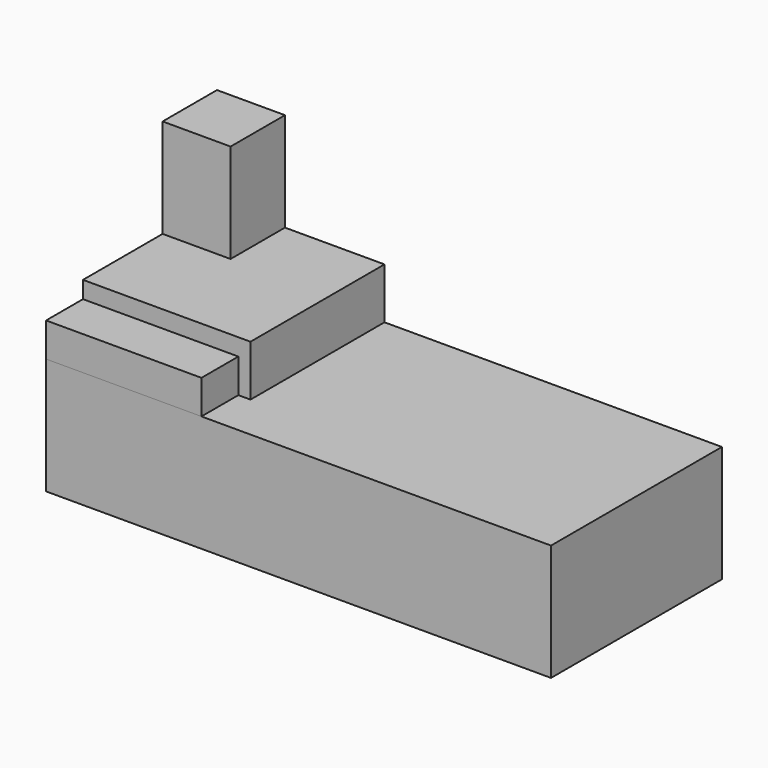
from build123d import *

# Parameters (mm, degrees)
F0_W     = 558.8
F0_H     = 393.7
F1_DEPTH = 406.4
F2_W     = 558.8
F2_H     = 304.8
F3_DEPTH = 1320.8
F4_W     = 177.8
F4_H     = 711.2
F5_DEPTH = 177.8
F6_W     = 438.15
F6_H     = 438.15
F7_DEPTH = 438.15
F8_W     = 203.2
F8_H     = 203.2
F9_DEPTH = 171.45


with BuildPart() as f1:
    # F0 (on Right) → F1 (new body)
    with BuildSketch(Plane.YZ):
        with Locations((-279.4, 196.85)):
            Rectangle(F0_W, F0_H)
    extrude(amount=F1_DEPTH)


with BuildPart() as f3:
    # F2 (on Right) → F3 (new body)
    with BuildSketch(Plane.YZ):
        with Locations((-279.4, 152.4)):
            Rectangle(F2_W, F2_H)
    extrude(amount=F3_DEPTH)


with BuildPart() as f5:
    # F4 (on Right) → F5 (new body)
    with BuildSketch(Plane.YZ):
        with Locations((-88.9, 341.467303)):
            Rectangle(F4_W, F4_H)
    extrude(amount=F5_DEPTH)


with BuildPart() as f7:
    # F6 (on Right) → F7 (new body)
    with BuildSketch(Plane.YZ):
        with Locations((-219.075, 219.075)):
            Rectangle(F6_W, F6_H)
    extrude(amount=F7_DEPTH)


with BuildPart() as f9:
    # F8 (on Right) → F9 (new body)
    with BuildSketch(Plane.YZ):
        with Locations((-101.6, 101.6)):
            Rectangle(F8_W, F8_H)
    extrude(amount=F9_DEPTH)


solid = Compound([f1.part, f3.part, f5.part, f7.part, f9.part])
